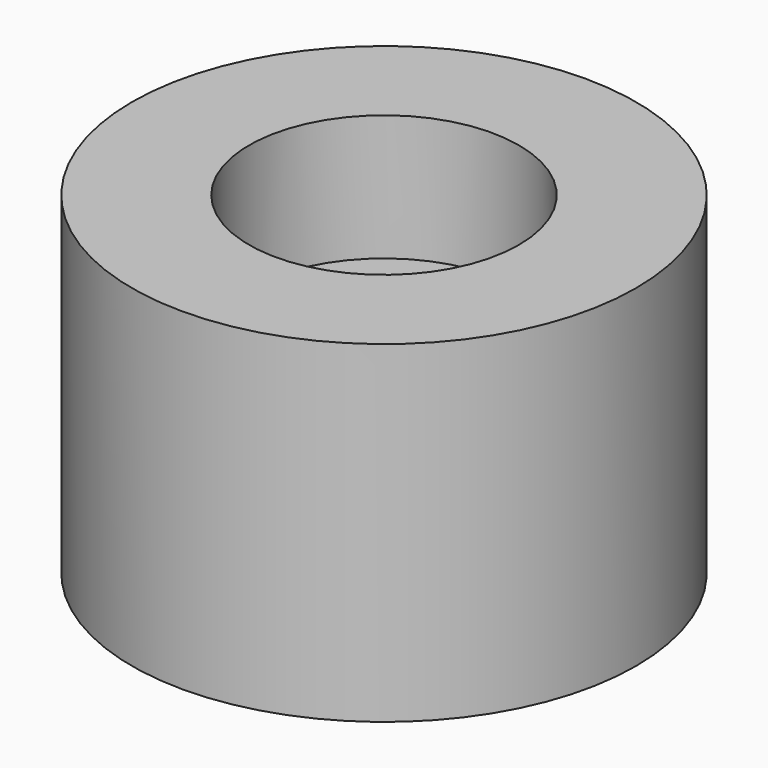
from build123d import *

# Parameters (mm, degrees)
F0_R     = 10
F1_DEPTH = 25
F3_R     = 100
F4_DEPTH = 132
F5_R     = 53.5394433614
F6_DEPTH = 50


with BuildPart() as f1:
    # F0 (on Top) → F1 (new body)
    with BuildSketch(Plane.XY):
        Circle(F0_R)
    extrude(amount=F1_DEPTH)


with BuildPart() as f4:
    # F3 (on Top) → F4 (new body)
    with BuildSketch(Plane.XY):
        Circle(F3_R)
    extrude(amount=F4_DEPTH)

    # F5 (on face) → F6 (cut)
    with BuildSketch(Plane.XY.offset(132)):
        Circle(F5_R)
    extrude(amount=-F6_DEPTH, mode=Mode.SUBTRACT)


solid = f4.part
